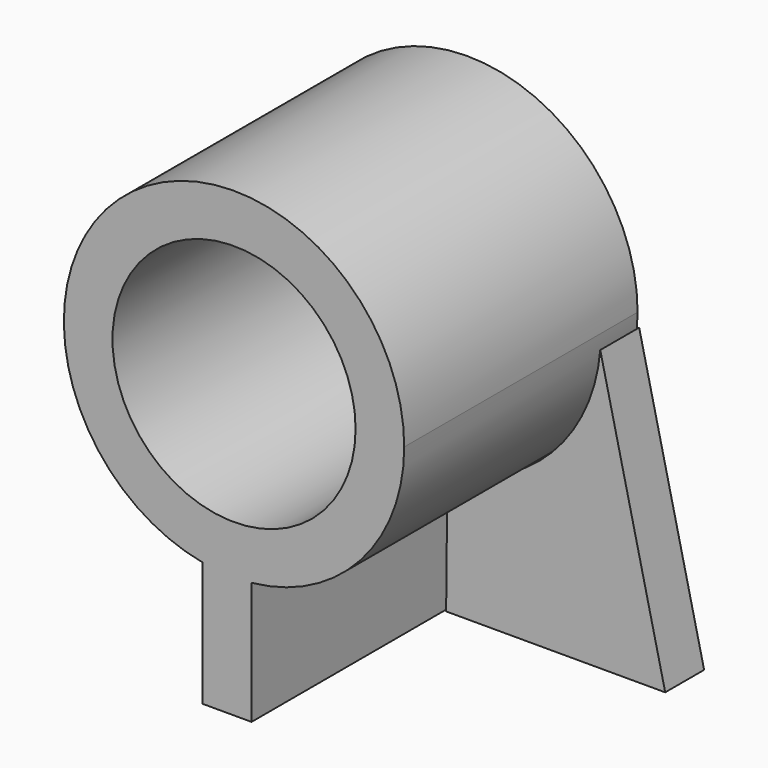
from build123d import *

# Parameters (mm, degrees)
F0_R     = 25
F1_DEPTH = 60
F3_DEPTH = 10


with BuildPart() as f1:
    # F0 (on Front) → F1 (new body)
    with BuildSketch(Plane.XZ):
        with BuildLine():
            ThreePointArc((-22.583361, -20.182138), (-0.192397, -8.809426), (8.817515, 14.632318))
            ThreePointArc((8.817515, 14.632318), (-48.518374, 41.57871), (-32.674376, -19.760347))
            ThreePointArc((-32.674376, -19.760347), (-27.644163, -20.337148), (-22.583361, -20.182138))
        make_face()
        with Locations((-26.182485, 14.632318)):
            Circle(F0_R, mode=Mode.SUBTRACT)
        with BuildLine():
            ThreePointArc((-22.583361, -20.182138), (-27.644163, -20.337148), (-32.674376, -19.760347))
            Line((-32.674376, -19.760347), (-32.674376, -45.367682))
            Line((-32.674376, -45.367682), (-22.583361, -45.367682))
            Line((-22.583361, -45.367682), (-22.583361, -20.182138))
        make_face()
    extrude(amount=F1_DEPTH)


with BuildPart() as f3:
    # F2 (on Front) → F3 (new body)
    with BuildSketch(Plane.XZ):
        with BuildLine():
            Line((-22.300454, -20.267507), (-22.562437, -45.679763))
            Line((-22.562437, -45.679763), (22.498466, -45.679763))
            Line((22.498466, -45.679763), (9.137385, 11.956278))
            ThreePointArc((9.137385, 11.956278), (-0.800422, -9.795724), (-22.300454, -20.267507))
        make_face()
    extrude(amount=F3_DEPTH)


solid = Compound([f1.part, f3.part])
